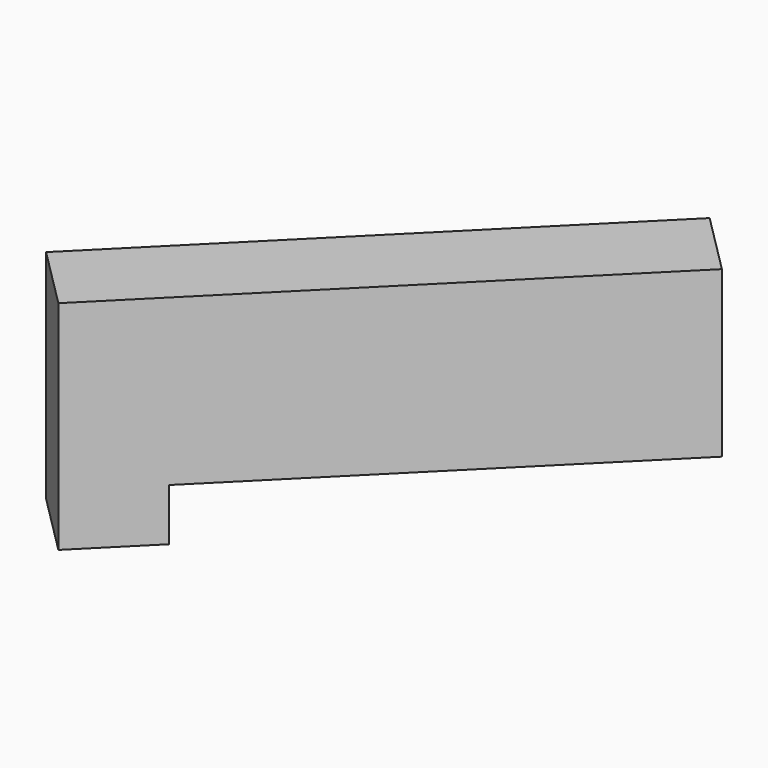
from build123d import *

# Parameters (mm, degrees)
SKETCH041_W             = 20
SKETCH041_H             = 20
PAD030_DEPTH            = 50
PAD030_FACE1_W          = 20
PAD030_FACE1_H          = 50
PAD031_DEPTH            = 100
SKETCH043_W             = 20
SKETCH043_H             = 12
POCKET008_DEPTH         = 100
BODY003_PLACEMENT_ANGLE = 45


with BuildPart() as part:
    # Sketch041 → Pad030 (new body)
    with BuildSketch(Plane.XY):
        with Locations((-89.365005, -120.837763)):
            Rectangle(SKETCH041_W, SKETCH041_H)
    extrude(amount=PAD030_DEPTH)

    # Pad030 Face1 → Pad031 (add)
    with BuildSketch(Plane(origin=(-89.365005, -110.837763, 25), x_dir=(1, 0, 0), z_dir=(0, 1, 0))):
        Rectangle(PAD030_FACE1_W, PAD030_FACE1_H)
    extrude(amount=PAD031_DEPTH)

    # Sketch043 (on Face8 of Pad031) → Pocket008 (cut)
    with BuildSketch(Plane(origin=(0, -10.837763, 0), x_dir=(-1, 0, 0), z_dir=(0, 1, 0))):
        with Locations((89.365005, 6)):
            Rectangle(SKETCH043_W, SKETCH043_H)
    extrude(amount=-POCKET008_DEPTH, mode=Mode.SUBTRACT)


with BuildPart() as part_1:
    # Body003 placement: moved
    add(part.part.moved(Location((-94, -46, 10))).rotate(Axis((-94, -46, 10), (0, 0, -1)), BODY003_PLACEMENT_ANGLE))


solid = part_1.part
